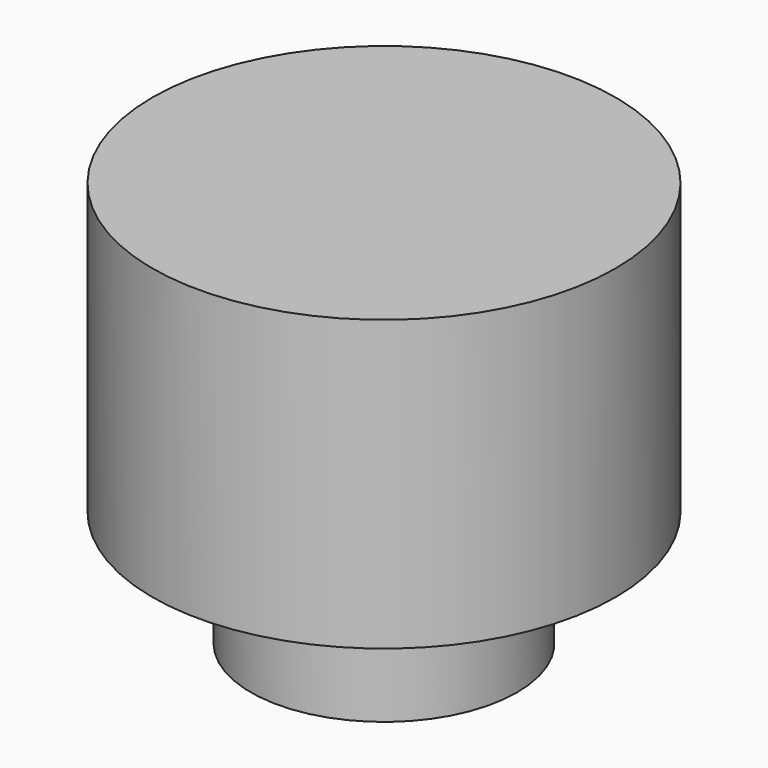
from build123d import *

# Parameters (mm, degrees)
CYLINDER004_R     = 2.3
CYLINDER004_DEPTH = 2
CYLINDER006_R     = 4
CYLINDER006_DEPTH = 5


with BuildPart() as cylinder004:
    # Cylinder004 → Cylinder004 (new body)
    with BuildSketch(Plane.XY):
        Circle(CYLINDER004_R)
    extrude(amount=CYLINDER004_DEPTH)


with BuildPart() as fusion:
    # Cylinder006 → Cylinder006 (new body)
    with BuildSketch(Plane.XY.offset(2)):
        Circle(CYLINDER006_R)
    extrude(amount=CYLINDER006_DEPTH)

    # Fusion: union Cylinder004
    add(cylinder004.part)


solid = fusion.part
